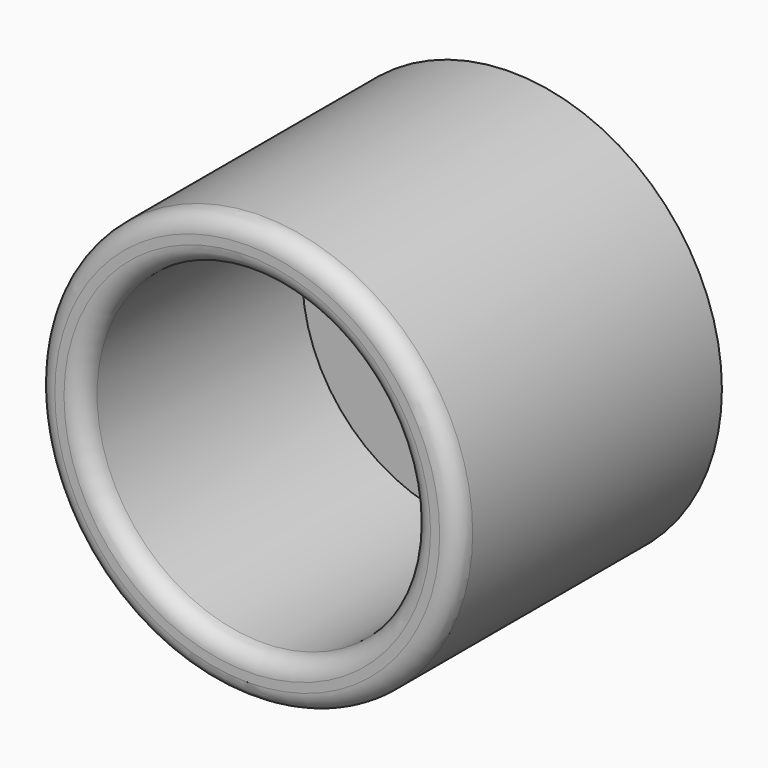
from build123d import *

# Parameters (mm, degrees)
F0_R     = 9
F0_R_2   = 2.25
F1_DEPTH = 3
F0_R_3   = 11.5
F2_DEPTH = 18
F3_R     = 1


with BuildPart() as f1:
    # F0 (on Front) → F1 (new body)
    with BuildSketch(Plane.XZ):
        Circle(F0_R)
        Circle(F0_R_2, mode=Mode.SUBTRACT)
    extrude(amount=F1_DEPTH)

    # F0 (on Front) → F2 (join)
    with BuildSketch(Plane.XZ):
        Circle(F0_R_3)
        Circle(F0_R, mode=Mode.SUBTRACT)
    extrude(amount=F2_DEPTH)

    # F3
    f3_edges = [f1.edges().sort_by_distance(p)[0] for p in [
        (-9, -18, 0),
        (-11.5, -18, 0),
    ]]
    fillet(f3_edges, radius=F3_R)


solid = f1.part
